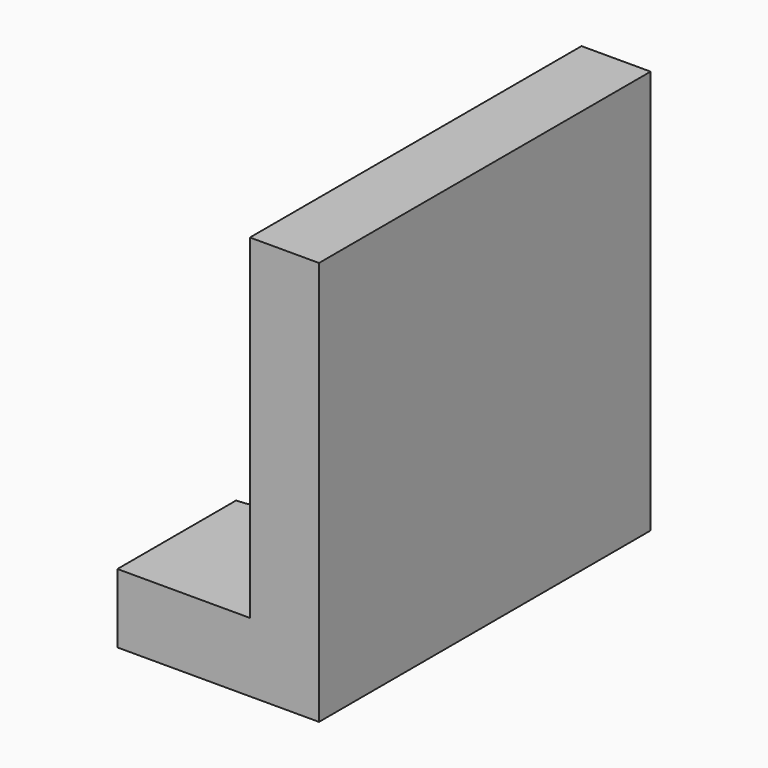
from build123d import *

# Parameters (mm, degrees)
F1_DEPTH = 76.2
F3_DEPTH = 39.624


with BuildPart() as f1:
    # F0 (on Front) → F1 (new body)
    with BuildSketch(Plane.XZ):
        Polygon((0, -30.248137), (0, -42.948137), (37.062691, -42.948137), (37.062691, 31.328041), (24.362691, 31.328041), (24.362691, -30.248137), align=None)
    extrude(amount=-F1_DEPTH)

    # F2 (on face) → F3 (cut)
    with BuildSketch(Plane.XY.offset(-30.248137)):
        with BuildLine():
            ThreePointArc((0, 27.292805), (7.641841, 30.458159), (10.807195, 38.1))
            ThreePointArc((10.807195, 38.1), (7.641841, 45.741841), (0, 48.907195))
            Line((0, 48.907195), (0, 27.292805))
        make_face()
    extrude(amount=-F3_DEPTH, mode=Mode.SUBTRACT)


solid = f1.part
